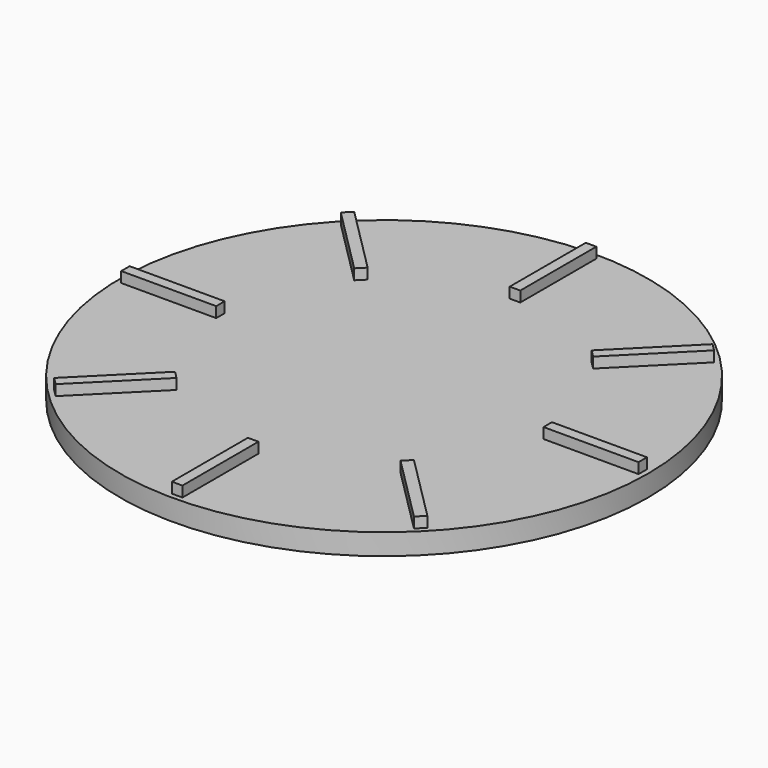
from build123d import *

# Parameters (mm, degrees)
F0_R     = 50
F1_DEPTH = 4
F2_W     = 2
F2_H     = 18
F2_W_2   = 18
F2_H_2   = 2
F3_DEPTH = 2


with BuildPart() as f1:
    # F0 (on Top) → F1 (new body)
    with BuildSketch(Plane.XY):
        Circle(F0_R)
    extrude(amount=F1_DEPTH)

    # F2 (on face) → F3 (join)
    with BuildSketch(Plane.XY.offset(4)):
        Polygon((-22.627417, 21.213203), (-21.213203, 22.627417), (-33.941125, 35.355339), (-35.355339, 33.941125), align=None)
        with Locations((0, 40)):
            Rectangle(F2_W, F2_H)
        Polygon((21.213203, 22.627417), (22.627417, 21.213203), (35.355339, 33.941125), (33.941125, 35.355339), align=None)
        with Locations((40, 0)):
            Rectangle(F2_W_2, F2_H_2)
        Polygon((22.627417, -21.213203), (21.213203, -22.627417), (33.941125, -35.355339), (35.355339, -33.941125), align=None)
        with Locations((0, -40)):
            Rectangle(F2_W, F2_H)
        Polygon((-21.213203, -22.627417), (-22.627417, -21.213203), (-35.355339, -33.941125), (-33.941125, -35.355339), align=None)
        with Locations((-40, 0)):
            Rectangle(F2_W_2, F2_H_2)
    extrude(amount=F3_DEPTH)


solid = f1.part
